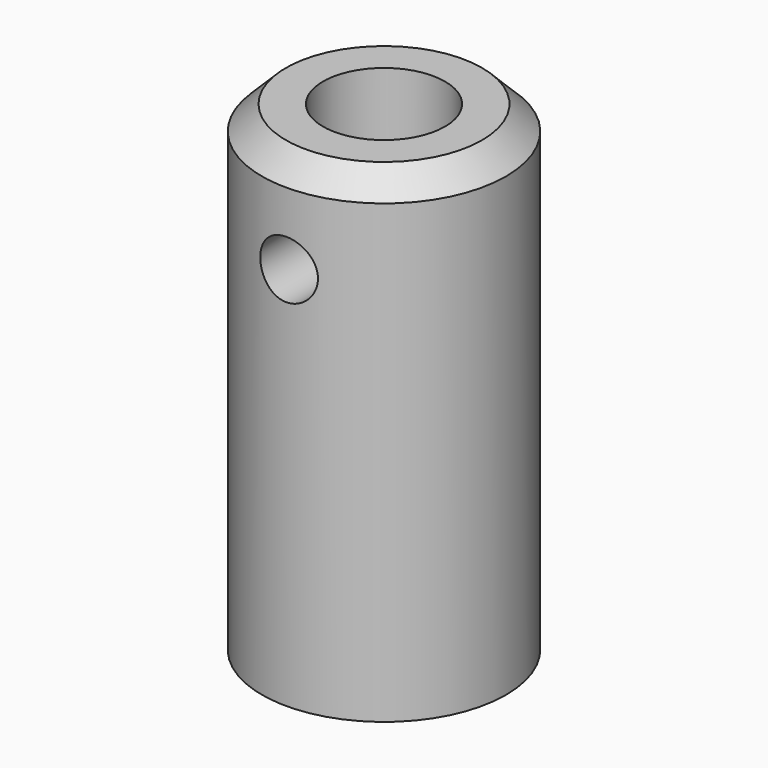
from build123d import *

# Parameters (mm, degrees)
F0_R     = 12.7
F0_R_2   = 6.35
F1_DEPTH = 50
F0_R_3   = 3
F2_DEPTH = 10.8
F3_SIZE  = 2.5
F4_R     = 3
F5_DEPTH = 25


with BuildPart() as f1:
    # F0 (on Top) → F1 (new body)
    with BuildSketch(Plane.XY):
        Circle(F0_R)
        Circle(F0_R_2, mode=Mode.SUBTRACT)
    extrude(amount=F1_DEPTH)

    # F0 (on Top) → F2 (join)
    with BuildSketch(Plane.XY):
        Circle(F0_R_2)
        Circle(F0_R_3, mode=Mode.SUBTRACT)
    extrude(amount=F2_DEPTH)

    # F3
    f3_edges = [f1.edges().sort_by_distance(p)[0] for p in [
        (-12.7, 0, 50),
    ]]
    chamfer(f3_edges, length=F3_SIZE)

    # F4 (on Front) → F5 (cut)
    with BuildSketch(Plane.XZ):
        with Locations((0, 40)):
            Circle(F4_R)
    extrude(amount=F5_DEPTH, mode=Mode.SUBTRACT)


solid = f1.part
